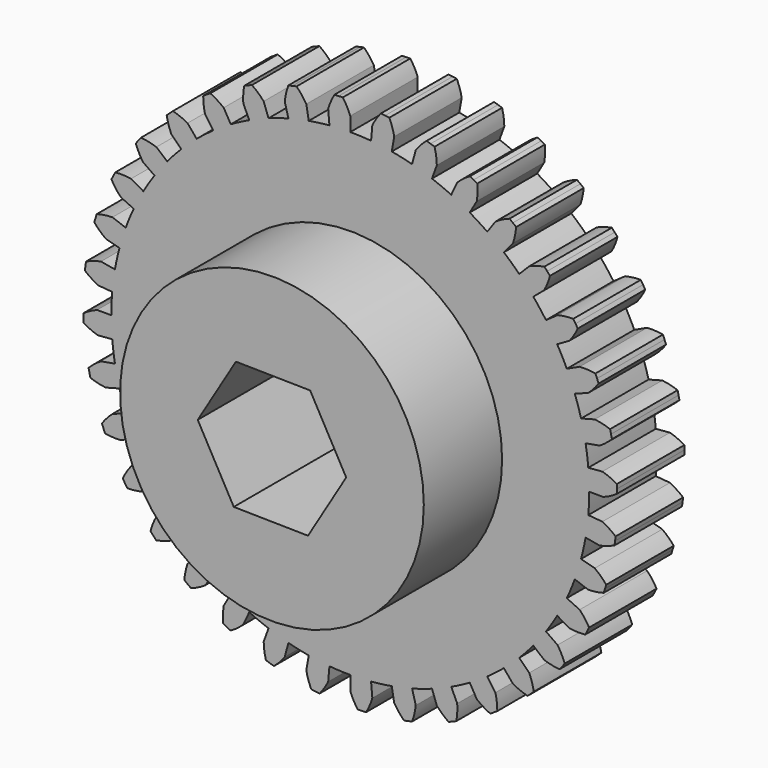
from build123d import *

# Parameters (mm, degrees)
F1_DEPTH = 6.35
F2_R     = 11.43
F3_DEPTH = 7.366
F5_DEPTH = 130.81


with BuildPart() as f1:
    # F0 (on Front) → F1 (new body)
    with BuildSketch(Plane.XZ):
        with BuildLine():
            ThreePointArc((0, 19.05), (-0.247725, 19.590682), (-0.560906, 20.096274))
            ThreePointArc((-0.560906, 20.096274), (-0.71894, 20.091241), (-0.876929, 20.084965))
            ThreePointArc((-0.876929, 20.084965), (-1.034863, 20.077447), (-1.192734, 20.068688))
            ThreePointArc((-1.192734, 20.068688), (-1.460658, 19.537725), (-1.660317, 18.977509))
            Line((-1.660317, 18.977509), (-1.567339, 17.914768))
            ThreePointArc((-1.567339, 17.914768), (-2.347279, 17.829351), (-3.12275, 17.709995))
            Line((-3.12275, 17.709995), (-3.307998, 18.760588))
            ThreePointArc((-3.307998, 18.760588), (-3.645848, 19.250039), (-4.042066, 19.693566))
            ThreePointArc((-4.042066, 19.693566), (-4.196825, 19.661167), (-4.351324, 19.627553))
            ThreePointArc((-4.351324, 19.627553), (-4.505554, 19.592724), (-4.659505, 19.556683))
            ThreePointArc((-4.659505, 19.556683), (-4.831158, 18.987262), (-4.930503, 18.400887))
            Line((-4.930503, 18.400887), (-4.654395, 17.370437))
            ThreePointArc((-4.654395, 17.370437), (-5.407653, 17.150883), (-6.150617, 16.89868))
            Line((-6.150617, 16.89868), (-6.515484, 17.901144))
            ThreePointArc((-6.515484, 17.901144), (-6.933193, 18.324493), (-7.40041, 18.692479))
            ThreePointArc((-7.40041, 18.692479), (-7.547191, 18.633699), (-7.693506, 18.573767))
            ThreePointArc((-7.693506, 18.573767), (-7.839345, 18.512685), (-7.984699, 18.450459))
            ThreePointArc((-7.984699, 18.450459), (-8.054865, 17.859881), (-8.050878, 17.265163))
            Line((-8.050878, 17.265163), (-7.600029, 16.298314))
            ThreePointArc((-7.600029, 16.298314), (-8.303718, 15.951293), (-8.9916, 15.573908))
            Line((-8.9916, 15.573908), (-9.525, 16.497784))
            ThreePointArc((-9.525, 16.497784), (-10.009877, 16.842166), (-10.533896, 17.123431))
            ThreePointArc((-10.533896, 17.123431), (-10.66824, 17.040055), (-10.801925, 16.955626))
            ThreePointArc((-10.801925, 16.955626), (-10.934942, 16.870148), (-11.067282, 16.783626))
            ThreePointArc((-11.067282, 16.783626), (-11.033829, 16.189837), (-10.926631, 15.604846))
            Line((-10.926631, 15.604846), (-10.31474, 14.730975))
            ThreePointArc((-10.31474, 14.730975), (-10.947479, 14.267032), (-11.559378, 13.77593))
            Line((-11.559378, 13.77593), (-12.245104, 14.593147))
            ThreePointArc((-12.245104, 14.593147), (-12.782416, 14.848099), (-13.347315, 15.034095))
            ThreePointArc((-13.347315, 15.034095), (-13.46514, 14.928658), (-13.582133, 14.822297))
            ThreePointArc((-13.582133, 14.822297), (-13.698286, 14.71502), (-13.813591, 14.606832))
            ThreePointArc((-13.813591, 14.606832), (-13.677536, 14.027872), (-13.470384, 13.470384))
            Line((-13.470384, 13.470384), (-12.716043, 12.716043))
            ThreePointArc((-12.716043, 12.716043), (-13.258606, 12.149274), (-13.77593, 11.559378))
            Line((-13.77593, 11.559378), (-14.593147, 12.245104))
            ThreePointArc((-14.593147, 12.245104), (-15.166568, 12.402879), (-15.755182, 12.487957))
            ThreePointArc((-15.755182, 12.487957), (-15.852909, 12.363661), (-15.949655, 12.238601))
            ThreePointArc((-15.949655, 12.238601), (-16.045414, 12.112783), (-16.140181, 11.986216))
            ThreePointArc((-16.140181, 11.986216), (-15.905658, 11.439678), (-15.604846, 10.926631))
            Line((-15.604846, 10.926631), (-14.730975, 10.31474))
            ThreePointArc((-14.730975, 10.31474), (-15.166877, 9.662366), (-15.573908, 8.9916))
            Line((-15.573908, 8.9916), (-16.497784, 9.525))
            ThreePointArc((-16.497784, 9.525), (-17.089891, 9.580805), (-17.684337, 9.562378))
            ThreePointArc((-17.684337, 9.562378), (-17.758995, 9.423001), (-17.832554, 9.28304))
            ThreePointArc((-17.832554, 9.28304), (-17.905011, 9.142506), (-17.97636, 9.001406))
            ThreePointArc((-17.97636, 9.001406), (-17.650495, 8.503895), (-17.265163, 8.050878))
            Line((-17.265163, 8.050878), (-16.298314, 7.600029))
            ThreePointArc((-16.298314, 7.600029), (-16.61431, 6.881873), (-16.89868, 6.150617))
            Line((-16.89868, 6.150617), (-17.901144, 6.515484))
            ThreePointArc((-17.901144, 6.515484), (-18.493947, 6.467623), (-19.076161, 6.346251))
            ThreePointArc((-19.076161, 6.346251), (-19.125483, 6.196027), (-19.173621, 6.045419))
            ThreePointArc((-19.173621, 6.045419), (-19.220573, 5.894438), (-19.266337, 5.743092))
            ThreePointArc((-19.266337, 5.743092), (-18.85903, 5.309726), (-18.400887, 4.930503))
            Line((-18.400887, 4.930503), (-17.370437, 4.654395))
            ThreePointArc((-17.370437, 4.654395), (-17.556926, 3.892277), (-17.709995, 3.12275))
            Line((-17.709995, 3.12275), (-18.760588, 3.307998))
            ThreePointArc((-18.760588, 3.307998), (-19.336073, 3.157925), (-19.888367, 2.937297))
            ThreePointArc((-19.888367, 2.937297), (-19.910852, 2.78079), (-19.932107, 2.624112))
            ThreePointArc((-19.932107, 2.624112), (-19.952128, 2.467271), (-19.970915, 2.310277))
            ThreePointArc((-19.970915, 2.310277), (-19.494543, 1.954223), (-18.977509, 1.660317))
            Line((-18.977509, 1.660317), (-17.914768, 1.567339))
            ThreePointArc((-17.914768, 1.567339), (-17.966084, 0.784416), (-17.9832, 0))
            Line((-17.9832, 0), (-19.05, 0))
            ThreePointArc((-19.05, 0), (-19.590682, -0.247725), (-20.096274, -0.560906))
            ThreePointArc((-20.096274, -0.560906), (-20.091241, -0.71894), (-20.084965, -0.876929))
            ThreePointArc((-20.084965, -0.876929), (-20.077447, -1.034863), (-20.068688, -1.192734))
            ThreePointArc((-20.068688, -1.192734), (-19.537725, -1.460658), (-18.977509, -1.660317))
            Line((-18.977509, -1.660317), (-17.914768, -1.567339))
            ThreePointArc((-17.914768, -1.567339), (-17.829351, -2.347279), (-17.709995, -3.12275))
            Line((-17.709995, -3.12275), (-18.760588, -3.307998))
            ThreePointArc((-18.760588, -3.307998), (-19.250039, -3.645848), (-19.693566, -4.042066))
            ThreePointArc((-19.693566, -4.042066), (-19.661167, -4.196825), (-19.627553, -4.351324))
            ThreePointArc((-19.627553, -4.351324), (-19.592724, -4.505554), (-19.556683, -4.659505))
            ThreePointArc((-19.556683, -4.659505), (-18.987262, -4.831158), (-18.400887, -4.930503))
            Line((-18.400887, -4.930503), (-17.370437, -4.654395))
            ThreePointArc((-17.370437, -4.654395), (-17.150883, -5.407653), (-16.89868, -6.150617))
            Line((-16.89868, -6.150617), (-17.901144, -6.515484))
            ThreePointArc((-17.901144, -6.515484), (-18.324493, -6.933193), (-18.692479, -7.40041))
            ThreePointArc((-18.692479, -7.40041), (-18.633699, -7.547191), (-18.573767, -7.693506))
            ThreePointArc((-18.573767, -7.693506), (-18.512685, -7.839345), (-18.450459, -7.984699))
            ThreePointArc((-18.450459, -7.984699), (-17.859881, -8.054865), (-17.265163, -8.050878))
            Line((-17.265163, -8.050878), (-16.298314, -7.600029))
            ThreePointArc((-16.298314, -7.600029), (-15.951293, -8.303718), (-15.573908, -8.9916))
            Line((-15.573908, -8.9916), (-16.497784, -9.525))
            ThreePointArc((-16.497784, -9.525), (-16.842166, -10.009877), (-17.123431, -10.533896))
            ThreePointArc((-17.123431, -10.533896), (-17.040055, -10.66824), (-16.955626, -10.801925))
            ThreePointArc((-16.955626, -10.801925), (-16.870148, -10.934942), (-16.783626, -11.067282))
            ThreePointArc((-16.783626, -11.067282), (-16.189837, -11.033829), (-15.604846, -10.926631))
            Line((-15.604846, -10.926631), (-14.730975, -10.31474))
            ThreePointArc((-14.730975, -10.31474), (-14.267032, -10.947479), (-13.77593, -11.559378))
            Line((-13.77593, -11.559378), (-14.593147, -12.245104))
            ThreePointArc((-14.593147, -12.245104), (-14.848099, -12.782416), (-15.034095, -13.347315))
            ThreePointArc((-15.034095, -13.347315), (-14.928658, -13.46514), (-14.822297, -13.582133))
            ThreePointArc((-14.822297, -13.582133), (-14.71502, -13.698286), (-14.606832, -13.813591))
            ThreePointArc((-14.606832, -13.813591), (-14.027872, -13.677536), (-13.470384, -13.470384))
            Line((-13.470384, -13.470384), (-12.716043, -12.716043))
            ThreePointArc((-12.716043, -12.716043), (-12.149274, -13.258606), (-11.559378, -13.77593))
            Line((-11.559378, -13.77593), (-12.245104, -14.593147))
            ThreePointArc((-12.245104, -14.593147), (-12.402879, -15.166568), (-12.487957, -15.755182))
            ThreePointArc((-12.487957, -15.755182), (-12.363661, -15.852909), (-12.238601, -15.949655))
            ThreePointArc((-12.238601, -15.949655), (-12.112783, -16.045414), (-11.986216, -16.140181))
            ThreePointArc((-11.986216, -16.140181), (-11.439678, -15.905658), (-10.926631, -15.604846))
            Line((-10.926631, -15.604846), (-10.31474, -14.730975))
            ThreePointArc((-10.31474, -14.730975), (-9.662366, -15.166877), (-8.9916, -15.573908))
            Line((-8.9916, -15.573908), (-9.525, -16.497784))
            ThreePointArc((-9.525, -16.497784), (-9.580805, -17.089891), (-9.562378, -17.684337))
            ThreePointArc((-9.562378, -17.684337), (-9.423001, -17.758995), (-9.28304, -17.832554))
            ThreePointArc((-9.28304, -17.832554), (-9.142506, -17.905011), (-9.001406, -17.97636))
            ThreePointArc((-9.001406, -17.97636), (-8.503895, -17.650495), (-8.050878, -17.265163))
            Line((-8.050878, -17.265163), (-7.600029, -16.298314))
            ThreePointArc((-7.600029, -16.298314), (-6.881873, -16.61431), (-6.150617, -16.89868))
            Line((-6.150617, -16.89868), (-6.515484, -17.901144))
            ThreePointArc((-6.515484, -17.901144), (-6.467623, -18.493947), (-6.346251, -19.076161))
            ThreePointArc((-6.346251, -19.076161), (-6.196027, -19.125483), (-6.045419, -19.173621))
            ThreePointArc((-6.045419, -19.173621), (-5.894438, -19.220573), (-5.743092, -19.266337))
            ThreePointArc((-5.743092, -19.266337), (-5.309726, -18.85903), (-4.930503, -18.400887))
            Line((-4.930503, -18.400887), (-4.654395, -17.370437))
            ThreePointArc((-4.654395, -17.370437), (-3.892277, -17.556926), (-3.12275, -17.709995))
            Line((-3.12275, -17.709995), (-3.307998, -18.760588))
            ThreePointArc((-3.307998, -18.760588), (-3.157925, -19.336073), (-2.937297, -19.888367))
            ThreePointArc((-2.937297, -19.888367), (-2.78079, -19.910852), (-2.624112, -19.932107))
            ThreePointArc((-2.624112, -19.932107), (-2.467271, -19.952128), (-2.310277, -19.970915))
            ThreePointArc((-2.310277, -19.970915), (-1.954223, -19.494543), (-1.660317, -18.977509))
            Line((-1.660317, -18.977509), (-1.567339, -17.914768))
            ThreePointArc((-1.567339, -17.914768), (-0.784416, -17.966084), (0, -17.9832))
            Line((0, -17.9832), (0, -19.05))
            ThreePointArc((0, -19.05), (0.247725, -19.590682), (0.560906, -20.096274))
            ThreePointArc((0.560906, -20.096274), (0.71894, -20.091241), (0.876929, -20.084965))
            ThreePointArc((0.876929, -20.084965), (1.034863, -20.077447), (1.192734, -20.068688))
            ThreePointArc((1.192734, -20.068688), (1.460658, -19.537725), (1.660317, -18.977509))
            Line((1.660317, -18.977509), (1.567339, -17.914768))
            ThreePointArc((1.567339, -17.914768), (2.347279, -17.829351), (3.12275, -17.709995))
            Line((3.12275, -17.709995), (3.307998, -18.760588))
            ThreePointArc((3.307998, -18.760588), (3.645848, -19.250039), (4.042066, -19.693566))
            ThreePointArc((4.042066, -19.693566), (4.196825, -19.661167), (4.351324, -19.627553))
            ThreePointArc((4.351324, -19.627553), (4.505554, -19.592724), (4.659505, -19.556683))
            ThreePointArc((4.659505, -19.556683), (4.831158, -18.987262), (4.930503, -18.400887))
            Line((4.930503, -18.400887), (4.654395, -17.370437))
            ThreePointArc((4.654395, -17.370437), (5.407653, -17.150883), (6.150617, -16.89868))
            Line((6.150617, -16.89868), (6.515484, -17.901144))
            ThreePointArc((6.515484, -17.901144), (6.933193, -18.324493), (7.40041, -18.692479))
            ThreePointArc((7.40041, -18.692479), (7.547191, -18.633699), (7.693506, -18.573767))
            ThreePointArc((7.693506, -18.573767), (7.839345, -18.512685), (7.984699, -18.450459))
            ThreePointArc((7.984699, -18.450459), (8.054865, -17.859881), (8.050878, -17.265163))
            Line((8.050878, -17.265163), (7.600029, -16.298314))
            ThreePointArc((7.600029, -16.298314), (8.303718, -15.951293), (8.9916, -15.573908))
            Line((8.9916, -15.573908), (9.525, -16.497784))
            ThreePointArc((9.525, -16.497784), (10.009877, -16.842166), (10.533896, -17.123431))
            ThreePointArc((10.533896, -17.123431), (10.66824, -17.040055), (10.801925, -16.955626))
            ThreePointArc((10.801925, -16.955626), (10.934942, -16.870148), (11.067282, -16.783626))
            ThreePointArc((11.067282, -16.783626), (11.033829, -16.189837), (10.926631, -15.604846))
            Line((10.926631, -15.604846), (10.31474, -14.730975))
            ThreePointArc((10.31474, -14.730975), (10.947479, -14.267032), (11.559378, -13.77593))
            Line((11.559378, -13.77593), (12.245104, -14.593147))
            ThreePointArc((12.245104, -14.593147), (12.782416, -14.848099), (13.347315, -15.034095))
            ThreePointArc((13.347315, -15.034095), (13.46514, -14.928658), (13.582133, -14.822297))
            ThreePointArc((13.582133, -14.822297), (13.698286, -14.71502), (13.813591, -14.606832))
            ThreePointArc((13.813591, -14.606832), (13.677536, -14.027872), (13.470384, -13.470384))
            Line((13.470384, -13.470384), (12.716043, -12.716043))
            ThreePointArc((12.716043, -12.716043), (13.258606, -12.149274), (13.77593, -11.559378))
            Line((13.77593, -11.559378), (14.593147, -12.245104))
            ThreePointArc((14.593147, -12.245104), (15.166568, -12.402879), (15.755182, -12.487957))
            ThreePointArc((15.755182, -12.487957), (15.852909, -12.363661), (15.949655, -12.238601))
            ThreePointArc((15.949655, -12.238601), (16.045414, -12.112783), (16.140181, -11.986216))
            ThreePointArc((16.140181, -11.986216), (15.905658, -11.439678), (15.604846, -10.926631))
            Line((15.604846, -10.926631), (14.730975, -10.31474))
            ThreePointArc((14.730975, -10.31474), (15.166877, -9.662366), (15.573908, -8.9916))
            Line((15.573908, -8.9916), (16.497784, -9.525))
            ThreePointArc((16.497784, -9.525), (17.089891, -9.580805), (17.684337, -9.562378))
            ThreePointArc((17.684337, -9.562378), (17.758995, -9.423001), (17.832554, -9.28304))
            ThreePointArc((17.832554, -9.28304), (17.905011, -9.142506), (17.97636, -9.001406))
            ThreePointArc((17.97636, -9.001406), (17.650495, -8.503895), (17.265163, -8.050878))
            Line((17.265163, -8.050878), (16.298314, -7.600029))
            ThreePointArc((16.298314, -7.600029), (16.61431, -6.881873), (16.89868, -6.150617))
            Line((16.89868, -6.150617), (17.901144, -6.515484))
            ThreePointArc((17.901144, -6.515484), (18.493947, -6.467623), (19.076161, -6.346251))
            ThreePointArc((19.076161, -6.346251), (19.125483, -6.196027), (19.173621, -6.045419))
            ThreePointArc((19.173621, -6.045419), (19.220573, -5.894438), (19.266337, -5.743092))
            ThreePointArc((19.266337, -5.743092), (18.85903, -5.309726), (18.400887, -4.930503))
            Line((18.400887, -4.930503), (17.370437, -4.654395))
            ThreePointArc((17.370437, -4.654395), (17.556926, -3.892277), (17.709995, -3.12275))
            Line((17.709995, -3.12275), (18.760588, -3.307998))
            ThreePointArc((18.760588, -3.307998), (19.336073, -3.157925), (19.888367, -2.937297))
            ThreePointArc((19.888367, -2.937297), (19.910852, -2.78079), (19.932107, -2.624112))
            ThreePointArc((19.932107, -2.624112), (19.952128, -2.467271), (19.970915, -2.310277))
            ThreePointArc((19.970915, -2.310277), (19.494543, -1.954223), (18.977509, -1.660317))
            Line((18.977509, -1.660317), (17.914768, -1.567339))
            ThreePointArc((17.914768, -1.567339), (17.966084, -0.784416), (17.9832, 0))
            Line((17.9832, 0), (19.05, 0))
            ThreePointArc((19.05, 0), (19.590682, 0.247725), (20.096274, 0.560906))
            ThreePointArc((20.096274, 0.560906), (20.091241, 0.71894), (20.084965, 0.876929))
            ThreePointArc((20.084965, 0.876929), (20.077447, 1.034863), (20.068688, 1.192734))
            ThreePointArc((20.068688, 1.192734), (19.537725, 1.460658), (18.977509, 1.660317))
            Line((18.977509, 1.660317), (17.914768, 1.567339))
            ThreePointArc((17.914768, 1.567339), (17.829351, 2.347279), (17.709995, 3.12275))
            Line((17.709995, 3.12275), (18.760588, 3.307998))
            ThreePointArc((18.760588, 3.307998), (19.250039, 3.645848), (19.693566, 4.042066))
            ThreePointArc((19.693566, 4.042066), (19.661167, 4.196825), (19.627553, 4.351324))
            ThreePointArc((19.627553, 4.351324), (19.592724, 4.505554), (19.556683, 4.659505))
            ThreePointArc((19.556683, 4.659505), (18.987262, 4.831158), (18.400887, 4.930503))
            Line((18.400887, 4.930503), (17.370437, 4.654395))
            ThreePointArc((17.370437, 4.654395), (17.150883, 5.407653), (16.89868, 6.150617))
            Line((16.89868, 6.150617), (17.901144, 6.515484))
            ThreePointArc((17.901144, 6.515484), (18.324493, 6.933193), (18.692479, 7.40041))
            ThreePointArc((18.692479, 7.40041), (18.633699, 7.547191), (18.573767, 7.693506))
            ThreePointArc((18.573767, 7.693506), (18.512685, 7.839345), (18.450459, 7.984699))
            ThreePointArc((18.450459, 7.984699), (17.859881, 8.054865), (17.265163, 8.050878))
            Line((17.265163, 8.050878), (16.298314, 7.600029))
            ThreePointArc((16.298314, 7.600029), (15.951293, 8.303718), (15.573908, 8.9916))
            Line((15.573908, 8.9916), (16.497784, 9.525))
            ThreePointArc((16.497784, 9.525), (16.842166, 10.009877), (17.123431, 10.533896))
            ThreePointArc((17.123431, 10.533896), (17.040055, 10.66824), (16.955626, 10.801925))
            ThreePointArc((16.955626, 10.801925), (16.870148, 10.934942), (16.783626, 11.067282))
            ThreePointArc((16.783626, 11.067282), (16.189837, 11.033829), (15.604846, 10.926631))
            Line((15.604846, 10.926631), (14.730975, 10.31474))
            ThreePointArc((14.730975, 10.31474), (14.267032, 10.947479), (13.77593, 11.559378))
            Line((13.77593, 11.559378), (14.593147, 12.245104))
            ThreePointArc((14.593147, 12.245104), (14.848099, 12.782416), (15.034095, 13.347315))
            ThreePointArc((15.034095, 13.347315), (14.928658, 13.46514), (14.822297, 13.582133))
            ThreePointArc((14.822297, 13.582133), (14.71502, 13.698286), (14.606832, 13.813591))
            ThreePointArc((14.606832, 13.813591), (14.027872, 13.677536), (13.470384, 13.470384))
            Line((13.470384, 13.470384), (12.716043, 12.716043))
            ThreePointArc((12.716043, 12.716043), (12.149274, 13.258606), (11.559378, 13.77593))
            Line((11.559378, 13.77593), (12.245104, 14.593147))
            ThreePointArc((12.245104, 14.593147), (12.402879, 15.166568), (12.487957, 15.755182))
            ThreePointArc((12.487957, 15.755182), (12.363661, 15.852909), (12.238601, 15.949655))
            ThreePointArc((12.238601, 15.949655), (12.112783, 16.045414), (11.986216, 16.140181))
            ThreePointArc((11.986216, 16.140181), (11.439678, 15.905658), (10.926631, 15.604846))
            Line((10.926631, 15.604846), (10.31474, 14.730975))
            ThreePointArc((10.31474, 14.730975), (9.662366, 15.166877), (8.9916, 15.573908))
            Line((8.9916, 15.573908), (9.525, 16.497784))
            ThreePointArc((9.525, 16.497784), (9.580805, 17.089891), (9.562378, 17.684337))
            ThreePointArc((9.562378, 17.684337), (9.423001, 17.758995), (9.28304, 17.832554))
            ThreePointArc((9.28304, 17.832554), (9.142506, 17.905011), (9.001406, 17.97636))
            ThreePointArc((9.001406, 17.97636), (8.503895, 17.650495), (8.050878, 17.265163))
            Line((8.050878, 17.265163), (7.600029, 16.298314))
            ThreePointArc((7.600029, 16.298314), (6.881873, 16.61431), (6.150617, 16.89868))
            Line((6.150617, 16.89868), (6.515484, 17.901144))
            ThreePointArc((6.515484, 17.901144), (6.467623, 18.493947), (6.346251, 19.076161))
            ThreePointArc((6.346251, 19.076161), (6.196027, 19.125483), (6.045419, 19.173621))
            ThreePointArc((6.045419, 19.173621), (5.894438, 19.220573), (5.743092, 19.266337))
            ThreePointArc((5.743092, 19.266337), (5.309726, 18.85903), (4.930503, 18.400887))
            Line((4.930503, 18.400887), (4.654395, 17.370437))
            ThreePointArc((4.654395, 17.370437), (3.892277, 17.556926), (3.12275, 17.709995))
            Line((3.12275, 17.709995), (3.307998, 18.760588))
            ThreePointArc((3.307998, 18.760588), (3.157925, 19.336073), (2.937297, 19.888367))
            ThreePointArc((2.937297, 19.888367), (2.78079, 19.910852), (2.624112, 19.932107))
            ThreePointArc((2.624112, 19.932107), (2.467271, 19.952128), (2.310277, 19.970915))
            ThreePointArc((2.310277, 19.970915), (1.954223, 19.494543), (1.660317, 18.977509))
            Line((1.660317, 18.977509), (1.567339, 17.914768))
            ThreePointArc((1.567339, 17.914768), (0.784416, 17.966084), (0, 17.9832))
            Line((0, 17.9832), (0, 19.05))
        make_face()
    extrude(amount=F1_DEPTH)

    # F2 (on face) → F3 (join)
    with BuildSketch(Plane.XZ.offset(6.35)):
        Circle(F2_R)
    extrude(amount=F3_DEPTH)

    # F4 (on face) → F5 (cut)
    with BuildSketch(Plane.XZ.offset(13.716)):
        Polygon((5.587229, -0.092835), (2.874012, 4.792265), (-2.713217, 4.8851), (-5.587229, 0.092835), (-2.874012, -4.792265), (2.713217, -4.8851), align=None)
    extrude(amount=-F5_DEPTH, mode=Mode.SUBTRACT)


solid = f1.part
